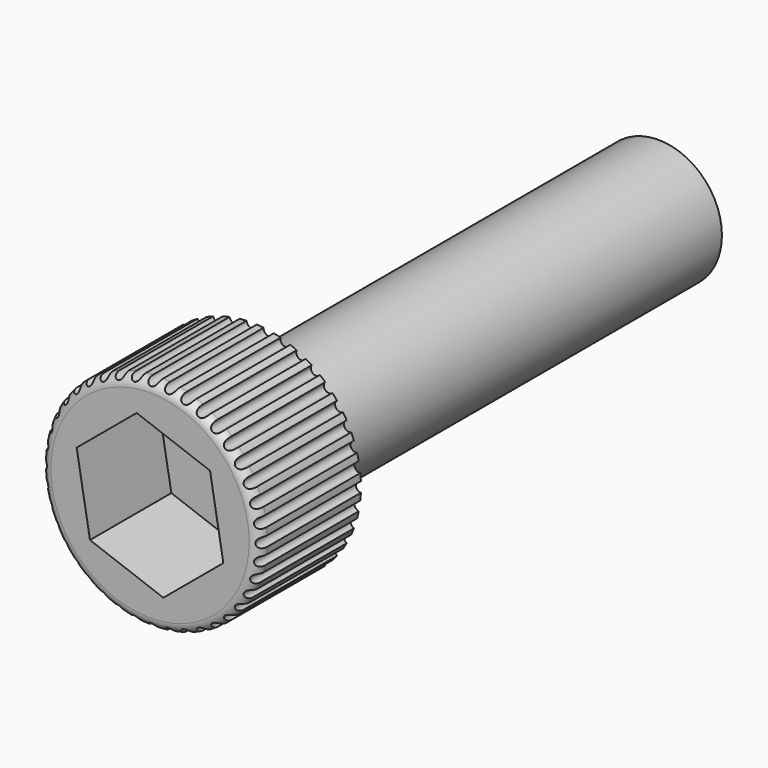
from build123d import *

# Parameters (mm, degrees)
F0_R     = 3.175
F1_DEPTH = 25.4
F0_R_2   = 5.461
F2_DEPTH = 6.35
F4_DEPTH = 5.08
F5_R     = 0.508
F6_R     = 0.254
F7_DEPTH = 6.351


with BuildPart() as f1:
    # F0 (on Front) → F1 (new body)
    with BuildSketch(Plane.XZ):
        Circle(F0_R)
    extrude(amount=-F1_DEPTH)

    # F0 (on Front) → F2 (join)
    with BuildSketch(Plane.XZ):
        Circle(F0_R_2)
        Circle(F0_R, mode=Mode.SUBTRACT)
        Circle(F0_R)
    extrude(amount=F2_DEPTH)

    # F3 (on face) → F4 (cut)
    with BuildSketch(Plane.XZ.offset(6.35)):
        Polygon((-0.665682, 3.847294), (-3.664695, 1.347149), (-2.999013, -2.500145), (0.665682, -3.847294), (3.664695, -1.347149), (2.999013, 2.500145), align=None)
    extrude(amount=-F4_DEPTH, mode=Mode.SUBTRACT)

    # F5
    f5_edges = [f1.edges().sort_by_distance(p)[0] for p in [
        (-5.461, -6.35, 0),
    ]]
    fillet(f5_edges, radius=F5_R)

    # F6 (on Front) → F7 (cut, through all)
    with BuildSketch(Plane.XZ):
        with Locations((0, 5.46106)):
            Circle(F6_R)
        with Locations((-0.854298, 5.393825)):
            Circle(F6_R)
        with Locations((-1.68756, 5.193777)):
            Circle(F6_R)
        with Locations((-2.479269, 4.86584)):
            Circle(F6_R)
        with Locations((-3.209931, 4.41809)):
            Circle(F6_R)
        with Locations((-3.861553, 3.861553)):
            Circle(F6_R)
        with Locations((-4.41809, 3.209931)):
            Circle(F6_R)
        with Locations((-4.86584, 2.479269)):
            Circle(F6_R)
        with Locations((-5.193777, 1.68756)):
            Circle(F6_R)
        with Locations((-5.393825, 0.854298)):
            Circle(F6_R)
        with Locations((-5.46106, 0)):
            Circle(F6_R)
        with Locations((-5.393825, -0.854298)):
            Circle(F6_R)
        with Locations((-5.193777, -1.68756)):
            Circle(F6_R)
        with Locations((-4.86584, -2.479269)):
            Circle(F6_R)
        with Locations((-4.41809, -3.209931)):
            Circle(F6_R)
        with Locations((-3.861553, -3.861553)):
            Circle(F6_R)
        with Locations((-3.209931, -4.41809)):
            Circle(F6_R)
        with Locations((-2.479269, -4.86584)):
            Circle(F6_R)
        with Locations((-1.68756, -5.193777)):
            Circle(F6_R)
        with Locations((-0.854298, -5.393825)):
            Circle(F6_R)
        with Locations((0, -5.46106)):
            Circle(F6_R)
        with Locations((0.854298, -5.393825)):
            Circle(F6_R)
        with Locations((1.68756, -5.193777)):
            Circle(F6_R)
        with Locations((2.479269, -4.86584)):
            Circle(F6_R)
        with Locations((3.209931, -4.41809)):
            Circle(F6_R)
        with Locations((3.861553, -3.861553)):
            Circle(F6_R)
        with Locations((4.41809, -3.209931)):
            Circle(F6_R)
        with Locations((4.86584, -2.479269)):
            Circle(F6_R)
        with Locations((5.193777, -1.68756)):
            Circle(F6_R)
        with Locations((5.393825, -0.854298)):
            Circle(F6_R)
        with Locations((5.46106, 0)):
            Circle(F6_R)
        with Locations((5.393825, 0.854298)):
            Circle(F6_R)
        with Locations((5.193777, 1.68756)):
            Circle(F6_R)
        with Locations((4.86584, 2.479269)):
            Circle(F6_R)
        with Locations((4.41809, 3.209931)):
            Circle(F6_R)
        with Locations((3.861553, 3.861553)):
            Circle(F6_R)
        with Locations((3.209931, 4.41809)):
            Circle(F6_R)
        with Locations((2.479269, 4.86584)):
            Circle(F6_R)
        with Locations((1.68756, 5.193777)):
            Circle(F6_R)
        with Locations((0.854298, 5.393825)):
            Circle(F6_R)
    extrude(amount=F7_DEPTH, mode=Mode.SUBTRACT)


solid = f1.part
